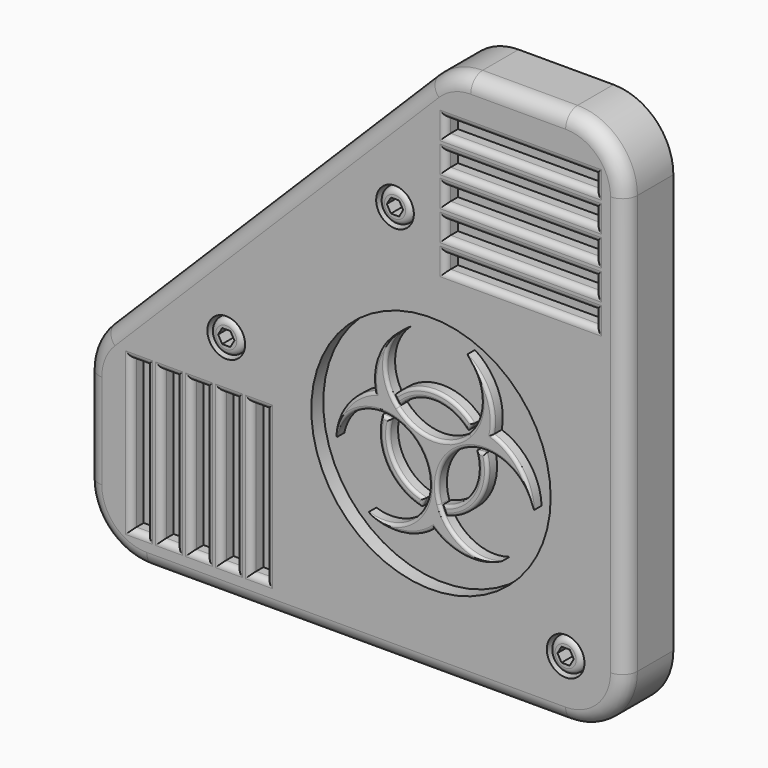
from build123d import *

# Parameters (mm, degrees)
F1_DEPTH  = 12.7
F2_R      = 3.175
F3_R      = 25.4
F4_DEPTH  = 3.175
F5_W      = 31.75
F5_H      = 3.175
F5_W_2    = 3.175
F5_H_2    = 31.75
F6_DEPTH  = 3.175
F8_DEPTH  = 2.54
F9_R      = 0.635
F10_R     = 4
F10_R_2   = 3.5
F11_DEPTH = 5.08
F13_DEPTH = 5.08
F14_R     = 1.27


with BuildPart() as f1:
    # F0 (on Front) → F1 (new body)
    with BuildSketch(Plane.XZ):
        with BuildLine():
            Line((-25.4, -76.2), (63.5, -76.2))
            ThreePointArc((63.5, -76.2), (72.480256, -72.480256), (76.2, -63.5))
            Line((76.2, -63.5), (76.2, 25.4))
            ThreePointArc((76.2, 25.4), (72.480256, 34.380256), (63.5, 38.1))
            Line((63.5, 38.1), (43.360512, 38.1))
            ThreePointArc((43.360512, 38.1), (38.500433, 37.13327), (34.380256, 34.380256))
            Line((34.380256, 34.380256), (-34.380256, -34.380256))
            ThreePointArc((-34.380256, -34.380256), (-37.13327, -38.500433), (-38.1, -43.360512))
            Line((-38.1, -43.360512), (-38.1, -63.5))
            ThreePointArc((-38.1, -63.5), (-34.380256, -72.480256), (-25.4, -76.2))
        make_face()
    extrude(amount=F1_DEPTH)

    # F2
    f2_edges = [f1.edges().sort_by_distance(p)[0] for p in [
        (19.05, -12.7, -76.2),
        (72.480256, -12.7, -72.480256),
        (76.2, -12.7, -19.05),
        (72.480256, -12.7, 34.380256),
        (53.430256, -12.7, 38.1),
        (38.500433, -12.7, 37.13327),
        (0, -12.7, 0),
        (-37.13327, -12.7, -38.500433),
        (-38.1, -12.7, -53.430256),
        (-34.380256, -12.7, -72.480256),
    ]]
    fillet(f2_edges, radius=F2_R)

    # F3 (on face) → F4 (cut)
    with BuildSketch(Plane.XZ.offset(12.7)):
        with Locations((34.925, -34.925)):
            Circle(F3_R)
    extrude(amount=-F4_DEPTH, mode=Mode.SUBTRACT)

    # F5 (on face) → F6 (cut)
    with BuildSketch(Plane.XZ.offset(12.7)):
        with Locations((53.975, 1.5875)):
            Rectangle(F5_W, F5_H)
        with Locations((53.975, 7.9375)):
            Rectangle(F5_W, F5_H)
        with Locations((53.975, 14.2875)):
            Rectangle(F5_W, F5_H)
        with Locations((53.975, 20.6375)):
            Rectangle(F5_W, F5_H)
        with Locations((-1.5875, -53.975)):
            Rectangle(F5_W_2, F5_H_2)
        with Locations((53.975, 26.9875)):
            Rectangle(F5_W, F5_H)
        with Locations((-7.9375, -53.975)):
            Rectangle(F5_W_2, F5_H_2)
        with Locations((-14.2875, -53.975)):
            Rectangle(F5_W_2, F5_H_2)
        with Locations((-20.6375, -53.975)):
            Rectangle(F5_W_2, F5_H_2)
        with Locations((-26.9875, -53.975)):
            Rectangle(F5_W_2, F5_H_2)
    extrude(amount=-F6_DEPTH, mode=Mode.SUBTRACT)

    # F7 (on face) → F8 (join)
    with BuildSketch(Plane.XZ.offset(9.525)):
        with BuildLine():
            ThreePointArc((33.100841, -44.273693), (26.676108, -39.6875), (25.916714, -31.830422))
            ThreePointArc((25.916714, -31.830422), (24.926986, -31.674995), (23.926477, -31.623))
            ThreePointArc((23.926477, -31.623), (24.98, -40.666749), (32.285355, -46.101))
            ThreePointArc((32.285355, -46.101), (32.740579, -45.208537), (33.100841, -44.273693))
        make_face()
        with BuildLine():
            ThreePointArc((27.414279, -29.067125), (24.77765, -21.718156), (28.133468, -14.6685))
            ThreePointArc((28.133468, -14.6685), (23.285711, -20.318961), (22.437879, -27.715557))
            ThreePointArc((22.437879, -27.715557), (16.456155, -32.1481), (13.98659, -39.171611))
            ThreePointArc((13.98659, -39.171611), (18.413863, -32.740559), (26.096571, -31.349463))
            ThreePointArc((26.096571, -31.349463), (32.725295, -36.195), (33.607292, -44.358412))
            ThreePointArc((33.607292, -44.358412), (28.561212, -50.316285), (20.778122, -50.934889))
            ThreePointArc((20.778122, -50.934889), (28.095444, -52.307939), (34.925, -49.343886))
            ThreePointArc((34.925, -49.343886), (41.754556, -52.307939), (49.071878, -50.934889))
            ThreePointArc((49.071878, -50.934889), (41.288788, -50.316285), (36.242708, -44.358412))
            ThreePointArc((36.242708, -44.358412), (37.124705, -36.195), (43.753429, -31.349463))
            ThreePointArc((43.753429, -31.349463), (51.436137, -32.740559), (55.86341, -39.171611))
            ThreePointArc((55.86341, -39.171611), (53.393845, -32.1481), (47.412121, -27.715557))
            ThreePointArc((47.412121, -27.715557), (46.564289, -20.318961), (41.716532, -14.6685))
            ThreePointArc((41.716532, -14.6685), (45.07235, -21.718156), (42.435721, -29.067125))
            ThreePointArc((42.435721, -29.067125), (34.925, -32.385), (27.414279, -29.067125))
        make_face()
        with BuildLine():
            ThreePointArc((27.740874, -28.670885), (34.925, -25.4), (42.109126, -28.670885))
            ThreePointArc((42.109126, -28.670885), (42.738594, -27.891468), (43.283877, -27.051))
            ThreePointArc((43.283877, -27.051), (34.925, -23.441503), (26.566123, -27.051))
            ThreePointArc((26.566123, -27.051), (27.111406, -27.891468), (27.740874, -28.670885))
        make_face()
        with BuildLine():
            ThreePointArc((43.933286, -31.830422), (43.173892, -39.6875), (36.749159, -44.273693))
            ThreePointArc((36.749159, -44.273693), (37.109421, -45.208537), (37.564645, -46.101))
            ThreePointArc((37.564645, -46.101), (44.87, -40.666749), (45.923523, -31.623))
            ThreePointArc((45.923523, -31.623), (44.923014, -31.674995), (43.933286, -31.830422))
        make_face()
    extrude(amount=F8_DEPTH)

    # F9
    f9_edges = [f1.edges().sort_by_distance(p)[0] for p in [
        (28.095444, -12.065, -52.307939),
        (41.754556, -12.065, -52.307939),
        (36.118601, -12.065, -43.937539),
        (51.436137, -12.065, -32.740559),
        (53.393845, -12.065, -32.1481),
        (46.564289, -12.065, -20.318961),
        (42.133287, -12.065, -29.385041),
        (24.77765, -12.065, -21.718156),
        (23.285711, -12.065, -20.318961),
        (16.456155, -12.065, -32.1481),
        (26.523111, -12.065, -31.452419),
        (28.561212, -12.065, -50.316285),
        (26.676108, -12.065, -39.6875),
        (24.926986, -12.065, -31.674995),
        (24.98, -12.065, -40.666749),
        (32.740579, -12.065, -45.208537),
        (27.111406, -12.065, -27.891468),
        (34.925, -12.065, -25.4),
        (42.738594, -12.065, -27.891468),
        (34.925, -12.065, -23.441503),
        (43.173892, -12.065, -39.6875),
        (37.109421, -12.065, -45.208537),
        (44.87, -12.065, -40.666749),
        (44.923014, -12.065, -31.674995),
    ]]
    fillet(f9_edges, radius=F9_R)

    # F10 (on face) → F11 (cut)
    with BuildSketch(Plane.XZ.offset(12.7)):
        with Locations((63.5, -63.5)):
            Circle(F10_R)
        with Locations((63.5, -63.5)):
            Circle(F10_R_2, mode=Mode.SUBTRACT)
        with Locations((-8.51692, -27.404104)):
            Circle(F10_R)
        with Locations((-8.51692, -27.404104)):
            Circle(F10_R_2, mode=Mode.SUBTRACT)
        with Locations((27.293711, 8.627313)):
            Circle(F10_R)
        with Locations((27.293711, 8.627313)):
            Circle(F10_R_2, mode=Mode.SUBTRACT)
    extrude(amount=-F11_DEPTH, mode=Mode.SUBTRACT)

    # F12 (on face) → F13 (cut)
    with BuildSketch(Plane.XZ.offset(12.7)):
        Polygon((28.159737, 10.127313), (26.427686, 10.127313), (25.56166, 8.627313), (26.427686, 7.127313), (28.159737, 7.127313), (29.025762, 8.627313), align=None)
        Polygon((-7.650895, -25.904104), (-9.382946, -25.904104), (-10.248971, -27.404104), (-9.382946, -28.904104), (-7.650895, -28.904104), (-6.784869, -27.404104), align=None)
        Polygon((64.366025, -62), (62.633975, -62), (61.767949, -63.5), (62.633975, -65), (64.366025, -65), (65.232051, -63.5), align=None)
    extrude(amount=-F13_DEPTH, mode=Mode.SUBTRACT)

    # F14
    f14_edges = [f1.edges().sort_by_distance(p)[0] for p in [
        (-12.01692, -12.7, -27.404104),
        (60, -12.7, -63.5),
        (23.793711, -12.7, 8.627313),
        (38.1, -12.7, 26.9875),
        (38.1, -12.7, 20.6375),
        (38.1, -12.7, 14.2875),
        (38.1, -12.7, 7.9375),
        (38.1, -12.7, 1.5875),
        (69.85, -12.7, 1.5875),
        (69.85, -12.7, 7.9375),
        (69.85, -12.7, 14.2875),
        (69.85, -12.7, 20.6375),
        (69.85, -12.7, 26.9875),
        (53.975, -12.7, 28.575),
        (53.975, -12.7, 25.4),
        (53.975, -12.7, 22.225),
        (53.975, -12.7, 19.05),
        (53.975, -12.7, 15.875),
        (53.975, -12.7, 12.7),
        (53.975, -12.7, 9.525),
        (53.975, -12.7, 6.35),
        (53.975, -12.7, 3.175),
        (53.975, -12.7, 0),
        (-26.9875, -12.7, -38.1),
        (-14.2875, -12.7, -38.1),
        (-7.9375, -12.7, -38.1),
        (-1.5875, -12.7, -38.1),
        (-26.9875, -12.7, -69.85),
        (-20.6375, -12.7, -69.85),
        (-14.2875, -12.7, -69.85),
        (-7.9375, -12.7, -69.85),
        (-1.5875, -12.7, -69.85),
        (-28.575, -12.7, -53.975),
        (-25.4, -12.7, -53.975),
        (-22.225, -12.7, -53.975),
        (-19.05, -12.7, -53.975),
        (-15.875, -12.7, -53.975),
        (-12.7, -12.7, -53.975),
        (-20.6375, -12.7, -38.1),
        (-9.525, -12.7, -53.975),
        (-6.35, -12.7, -53.975),
        (-3.175, -12.7, -53.975),
        (0, -12.7, -53.975),
    ]]
    fillet(f14_edges, radius=F14_R)


solid = f1.part
